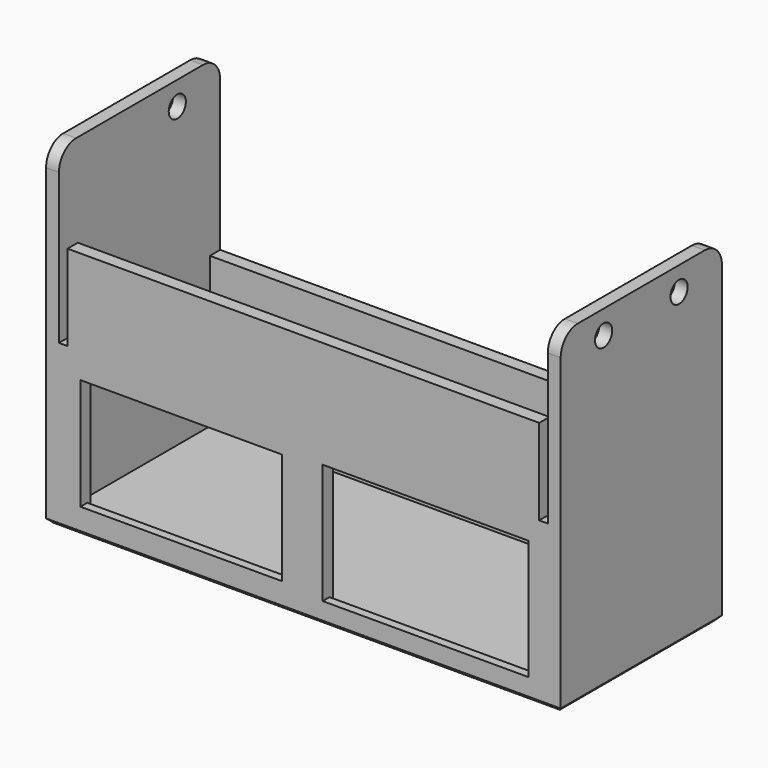
from build123d import *

# Parameters (mm, degrees)
F2_R      = 2.5
F3_DEPTH  = 3
F4_W      = 3
F4_H      = 35
F4_H_2    = 3
F4_W_2    = 41
F5_DEPTH  = 114
F6_R      = 2.5
F7_DEPTH  = 3
F8_W      = 110
F8_H      = 20
F9_DEPTH  = 3
F10_W     = 47
F10_H     = 26
F10_W_2   = 48
F10_H_2   = 28
F11_DEPTH = 3
F13_DEPTH = 3
F14_SIZE  = 1
F16_W     = 48
F16_H     = 2
F16_W_2   = 47
F17_DEPTH = 1


with BuildPart() as f3:
    # F2 (on Right) → F3 (new body)
    with BuildSketch(Plane.YZ):
        with BuildLine():
            ThreePointArc((22.5, 35), (21.0355339059, 38.5355339059), (17.5, 40))
            Line((17.5, 40), (-19.5, 40))
            ThreePointArc((-19.5, 40), (-23.0355339059, 38.5355339059), (-24.5, 35))
            Line((-24.5, 35), (-24.5, -38))
            Line((-24.5, -38), (22.5, -38))
            Line((22.5, -38), (22.5, 35))
        make_face()
        with Locations((-12, 34.5)):
            Circle(F2_R, mode=Mode.SUBTRACT)
        with Locations((10, 34.5)):
            Circle(F2_R, mode=Mode.SUBTRACT)
    extrude(amount=F3_DEPTH)

    # F4 (on Right) → F5 (join)
    with BuildSketch(Plane.YZ):
        with Locations((-23, -17.5)):
            Rectangle(F4_W, F4_H)
        with Locations((21, -36.5)):
            Rectangle(F4_W, F4_H_2)
        with Locations((21, -17.5)):
            Rectangle(F4_W, F4_H)
        with Locations((-1, -36.5)):
            Rectangle(F4_W_2, F4_H_2)
        with Locations((-23, -36.5)):
            Rectangle(F4_W, F4_H_2)
    extrude(amount=-F5_DEPTH)

    # F6 (on face) → F7 (join)
    with BuildSketch(Plane(origin=(-114, 0, 0), x_dir=(0, -1, 0), z_dir=(-1, 0, 0))):
        with BuildLine():
            ThreePointArc((24.5, 35), (23.0355339059, 38.5355339059), (19.5, 40))
            Line((19.5, 40), (-17.5, 40))
            ThreePointArc((-17.5, 40), (-21.0355339059, 38.5355339059), (-22.5, 35))
            Line((-22.5, 35), (-22.5, -38))
            Line((-22.5, -38), (24.5, -38))
            Line((24.5, -38), (24.5, 35))
        make_face()
        with Locations((-10, 34.5)):
            Circle(F6_R, mode=Mode.SUBTRACT)
    extrude(amount=F7_DEPTH)

    # F8 (on face) → F9 (join)
    with BuildSketch(Plane.XZ.offset(24.5)):
        with Locations((-57, 10)):
            Rectangle(F8_W, F8_H)
    extrude(amount=-F9_DEPTH)

    # F10 (on face) → F11 (cut, through all)
    with BuildSketch(Plane.XZ.offset(24.5)):
        with Locations((-85.5, -19)):
            Rectangle(F10_W, F10_H)
        with Locations((-28.5, -19)):
            Rectangle(F10_W_2, F10_H_2)
    extrude(amount=-F11_DEPTH, mode=Mode.SUBTRACT)

    # F12 (on face) → F13 (cut, through all)
    with BuildSketch(Plane(origin=(0, 22.5, 0), x_dir=(-1, 0, 0), z_dir=(0, 1, 0))):
        with BuildLine():
            ThreePointArc((82, -26), (82.5857864376, -27.4142135624), (84, -28))
            Line((84, -28), (95, -28))
            ThreePointArc((95, -28), (96.4142135624, -27.4142135624), (97, -26))
            Line((97, -26), (97, -22))
            ThreePointArc((97, -22), (96.4142135624, -20.5857864376), (95, -20))
            Line((95, -20), (84, -20))
            ThreePointArc((84, -20), (82.5857864376, -20.5857864376), (82, -22))
            Line((82, -22), (82, -26))
        make_face()
        with BuildLine():
            ThreePointArc((17, -26), (17.5857864376, -27.4142135624), (19, -28))
            Line((19, -28), (30, -28))
            ThreePointArc((30, -28), (31.4142135624, -27.4142135624), (32, -26))
            Line((32, -26), (32, -22))
            ThreePointArc((32, -22), (31.4142135624, -20.5857864376), (30, -20))
            Line((30, -20), (19, -20))
            ThreePointArc((19, -20), (17.5857864376, -20.5857864376), (17, -22))
            Line((17, -22), (17, -26))
        make_face()
    extrude(amount=-F13_DEPTH, mode=Mode.SUBTRACT)

    # F14
    f14_edges = [f3.edges().sort_by_distance(p)[0] for p in [
        (-57, -24.5, -38),
        (3, -1, -38),
        (-57, 22.5, -38),
        (-117, -1, -38),
    ]]
    chamfer(f14_edges, length=F14_SIZE)

    # F16 (on face) → F17 (cut)
    with BuildSketch(Plane(origin=(0, -21.5, 0), x_dir=(-1, 0, 0), z_dir=(0, 1, 0))):
        with Locations((28.5, -34)):
            Rectangle(F16_W, F16_H)
        with Locations((85.5, -33)):
            Rectangle(F16_W_2, F16_H)
        with Locations((85.5, -5)):
            Rectangle(F16_W_2, F16_H)
        with Locations((28.5, -4)):
            Rectangle(F16_W, F16_H)
    extrude(amount=-F17_DEPTH, mode=Mode.SUBTRACT)


solid = f3.part
